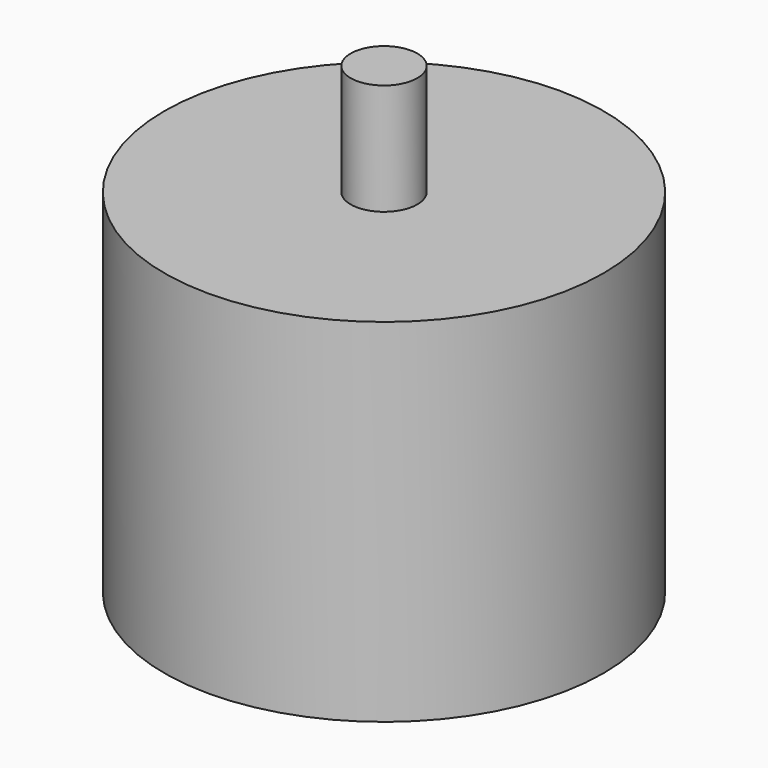
from build123d import *

# Parameters (mm, degrees)
F0_R     = 5.925
F1_DEPTH = 9.5
F2_R     = 0.9
F3_DEPTH = 3


with BuildPart() as f1:
    # F0 (on Top) → F1 (new body)
    with BuildSketch(Plane.XY):
        Circle(F0_R)
    extrude(amount=F1_DEPTH)

    # F2 (on face) → F3 (join)
    with BuildSketch(Plane.XY.offset(9.5)):
        Circle(F2_R)
    extrude(amount=F3_DEPTH)

    # F4 (on Front) → F5 (revolve, cut)
    with BuildSketch(Plane.XZ):
        with BuildLine():
            Line((0, 0), (5.25, 0))
            ThreePointArc((5.25, 0), (3.712311, 3.712311), (0, 5.25))
            Line((0, 5.25), (0, 0))
        make_face()
    revolve(axis=Axis((0, 0, 7.387147), (0, 0, 1)), mode=Mode.SUBTRACT)


solid = f1.part
